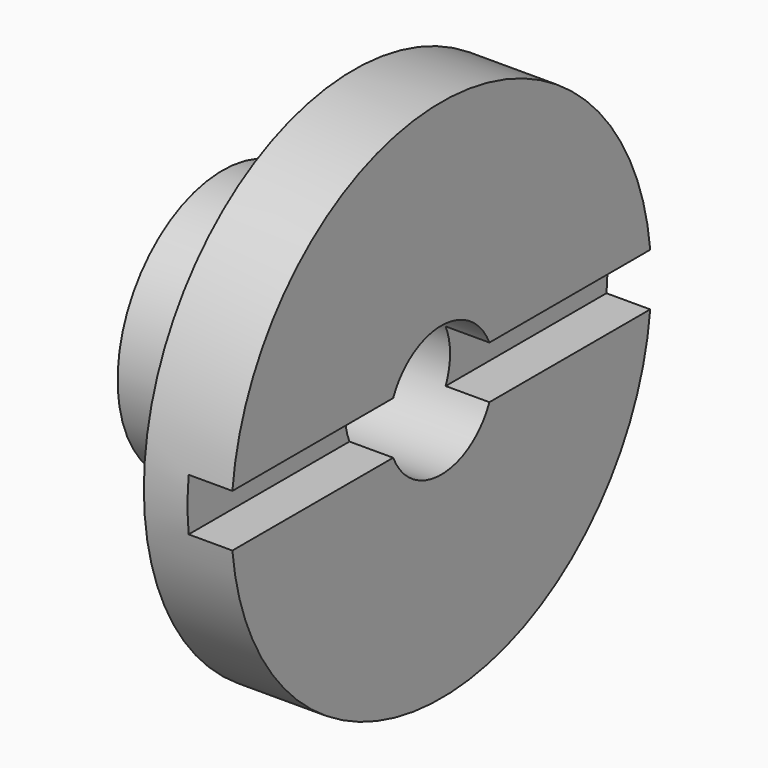
from build123d import *

# Parameters (mm, degrees)
F3_DEPTH = 10


with BuildPart() as f1:
    # F0 (on Top) → F1 (revolve)
    with BuildSketch(Plane.XY):
        with BuildLine():
            Line((-50, 15), (0, 15))
            Line((0, 15), (0, 60))
            Line((0, 60), (-20, 60))
            Line((-20, 60), (-20, 35))
            ThreePointArc((-20, 35), (-21.4644660941, 31.4644660941), (-25, 30))
            Line((-25, 30), (-50, 30))
            Line((-50, 30), (-50, 15))
        make_face()
    revolve(axis=Axis((-25, 0, 0), (1, 0, 0)))

    # F2 (on face) → F3 (cut)
    with BuildSketch(Plane.YZ):
        with BuildLine():
            Line((-13.7477270849, 6), (-59.6992462264, 6))
            ThreePointArc((-59.6992462264, 6), (-60, 0), (-59.6992462264, -6))
            Line((-59.6992462264, -6), (-13.7477270849, -6))
            ThreePointArc((-13.7477270849, -6), (-15, 0), (-13.7477270849, 6))
        make_face()
        with BuildLine():
            ThreePointArc((-59.6992462264, -6), (-60, 0), (-59.6992462264, 6))
            Line((-59.6992462264, 6), (-64.5133554935, 6))
            Line((-64.5133554935, 6), (-64.5133554935, -6))
            Line((-64.5133554935, -6), (-59.6992462264, -6))
        make_face()
        with BuildLine():
            ThreePointArc((59.6992462264, -6), (59.9247643866, -3.0037665036), (60, 0))
            ThreePointArc((60, 0), (59.9247643866, 3.0037665036), (59.6992462264, 6))
            Line((59.6992462264, 6), (13.7477270849, 6))
            ThreePointArc((13.7477270849, 6), (14.683594694, 3.0646446553), (15, 0))
            ThreePointArc((15, 0), (14.683594694, -3.0646446553), (13.7477270849, -6))
            Line((13.7477270849, -6), (59.6992462264, -6))
        make_face()
    extrude(amount=-F3_DEPTH, mode=Mode.SUBTRACT)


solid = f1.part
